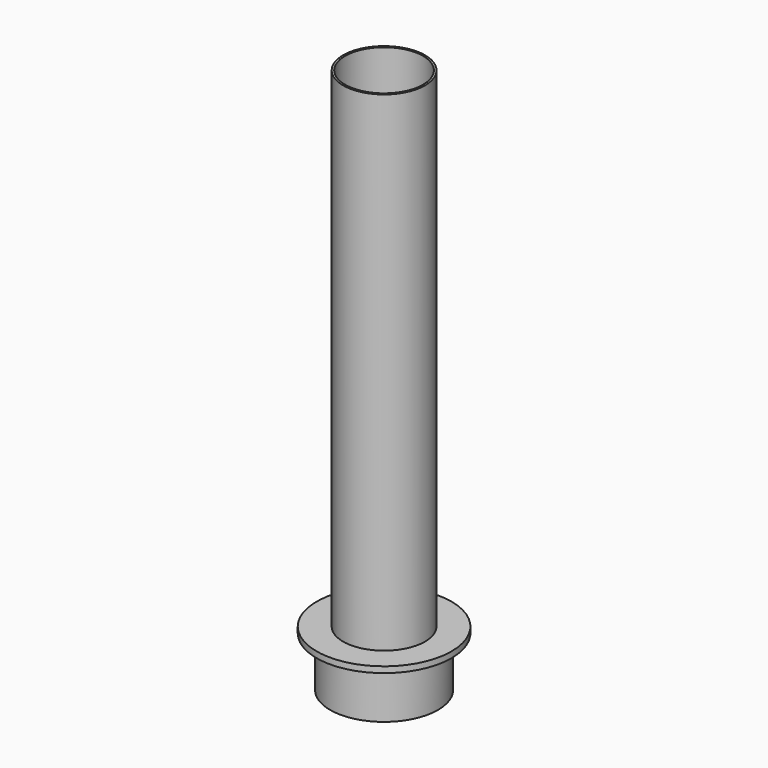
from build123d import *

# Parameters (mm, degrees)
F0_R     = 33.740848
F0_R_2   = 27
F0_R_3   = 5.25
F1_DEPTH = 3
F2_DEPTH = 25
F3_R     = 20.5
F3_R_2   = 19.5
F4_DEPTH = 245


with BuildPart() as f1:
    # F0 (on Top) → F1 (new body)
    with BuildSketch(Plane.XY):
        Circle(F0_R)
        Circle(F0_R_2, mode=Mode.SUBTRACT)
        Circle(F0_R_2)
        Circle(F0_R_3, mode=Mode.SUBTRACT)
    extrude(amount=F1_DEPTH)

    # F0 (on Top) → F2 (join)
    with BuildSketch(Plane.XY):
        Circle(F0_R_2)
        Circle(F0_R_3, mode=Mode.SUBTRACT)
    extrude(amount=-F2_DEPTH)


with BuildPart() as f4:
    # F3 (on face) → F4 (new body)
    with BuildSketch(Plane.XY.offset(3)):
        Circle(F3_R)
        Circle(F3_R_2, mode=Mode.SUBTRACT)
    extrude(amount=F4_DEPTH)


solid = Compound([f1.part, f4.part])
